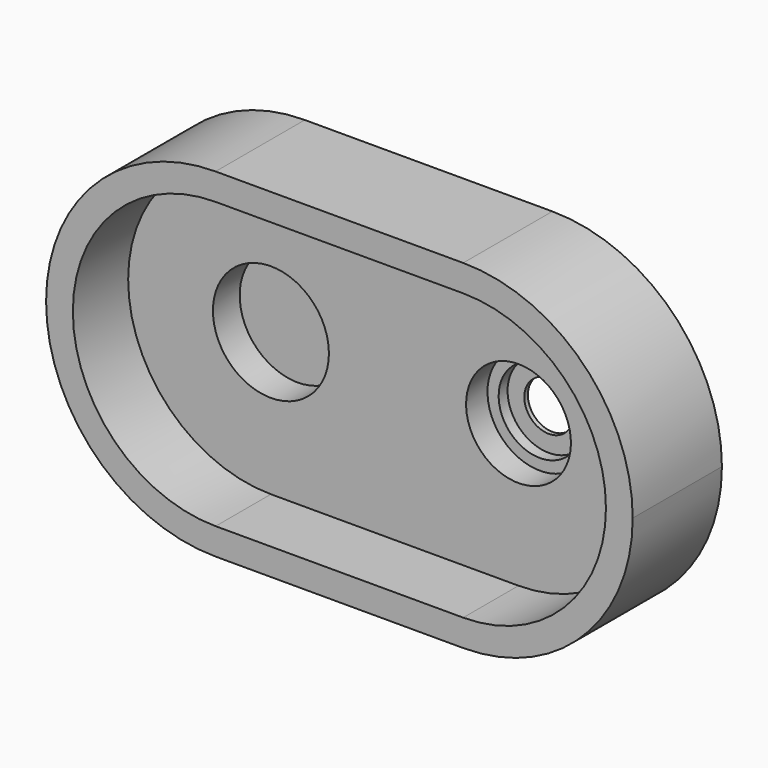
from build123d import *

# Parameters (mm, degrees)
F1_DEPTH = 50
F4_DEPTH = 50
F5_R     = 26
F6_DEPTH = 15


with BuildPart() as f1:
    # F0 (on Front) → F1 (new body)
    with BuildSketch(Plane.XZ):
        with BuildLine():
            ThreePointArc((111, 76), (80.7507566067, 69.7207521053), (55.5, 51.9206124771))
            ThreePointArc((55.5, 51.9206124771), (70.6894617323, 27.9105714739), (76, 0))
            ThreePointArc((76, 0), (70.6894617323, -27.9105714739), (55.5, -51.9206124771))
            ThreePointArc((55.5, -51.9206124771), (80.7507566067, -69.7207521053), (111, -76))
            ThreePointArc((111, -76), (164.7401153702, -53.7401153702), (187, 0))
            ThreePointArc((187, 0), (164.7401153702, 53.7401153702), (111, 76))
        make_face()
        with BuildLine():
            Line((111, 76), (0, 76))
            ThreePointArc((0, 76), (30.2492433933, 69.7207521053), (55.5, 51.9206124771))
            ThreePointArc((55.5, 51.9206124771), (80.7507566067, 69.7207521053), (111, 76))
        make_face()
        with BuildLine():
            ThreePointArc((76, 0), (70.6894617323, 27.9105714739), (55.5, 51.9206124771))
            ThreePointArc((55.5, 51.9206124771), (35, 0), (55.5, -51.9206124771))
            ThreePointArc((55.5, -51.9206124771), (70.6894617323, -27.9105714739), (76, 0))
        make_face()
        with BuildLine():
            ThreePointArc((55.5, -51.9206124771), (30.2492433933, -69.7207521053), (0, -76))
            Line((0, -76), (111, -76))
            ThreePointArc((111, -76), (80.7507566067, -69.7207521053), (55.5, -51.9206124771))
        make_face()
        with BuildLine():
            ThreePointArc((55.5, 51.9206124771), (30.2492433933, 69.7207521053), (0, 76))
            ThreePointArc((0, 76), (-76, 0), (0, -76))
            ThreePointArc((0, -76), (30.2492433933, -69.7207521053), (55.5, -51.9206124771))
            ThreePointArc((55.5, -51.9206124771), (35, 0), (55.5, 51.9206124771))
        make_face()
    extrude(amount=F1_DEPTH)

    # F3 (on offset) → F4 (cut)
    with BuildSketch(Plane.XZ.offset(19)):
        with BuildLine():
            Line((111, 64), (0, 64))
            ThreePointArc((0, 64), (-64, 0), (0, -64))
            Line((0, -64), (111, -64))
            ThreePointArc((111, -64), (175, 0), (111, 64))
        make_face()
    extrude(amount=F4_DEPTH, mode=Mode.SUBTRACT)

    # F5 (on offset) → F6 (cut)
    with BuildSketch(Plane.XZ.offset(19)):
        Circle(F5_R)
    extrude(amount=-F6_DEPTH, mode=Mode.SUBTRACT)

    # F8 (on offset) → F9 (revolve, cut)
    with BuildSketch(Plane.YZ.offset(111)):
        Polygon((-19, 0), (0, 0), (0, 11), (-2, 11), (-2, 18.5), (-7, 18.5), (-7, 23.5), (-19, 23.5), align=None)
    revolve(axis=Axis((111, -17.5056988373, 0), (0, -1, 0)), mode=Mode.SUBTRACT)


solid = f1.part
